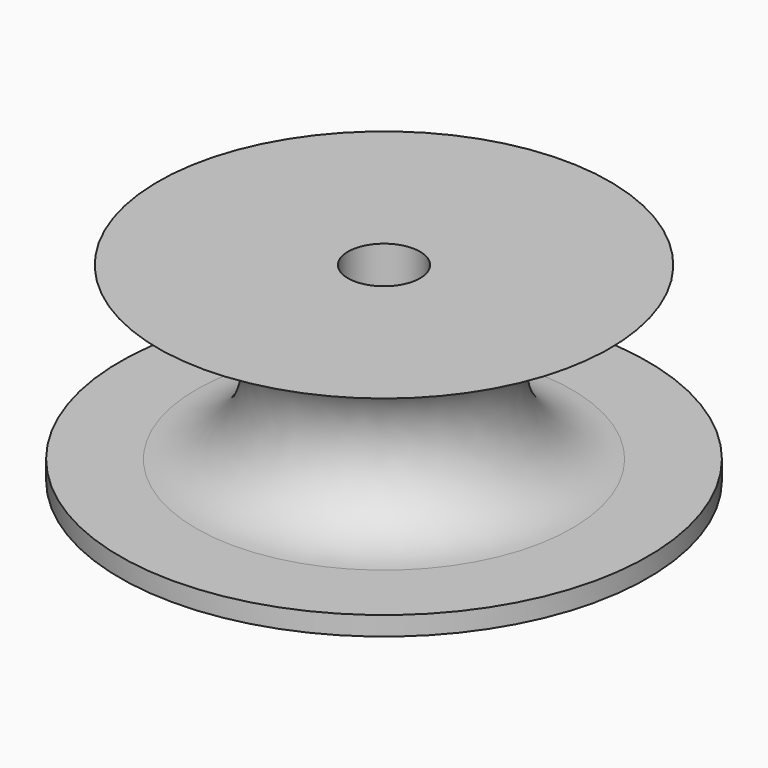
from build123d import *


with BuildPart() as f1:
    # F0 (on Right) → F1 (revolve)
    with BuildSketch(Plane.YZ):
        with BuildLine():
            Line((-1.9, -5), (-1.9, 5))
            Line((-1.9, 5), (-9.9, 5))
            Line((-9.9, 5), (-11.9, 5))
            Line((-11.9, 5), (-9.9, 4))
            ThreePointArc((-9.9, 4), (-5.9, 0), (-9.9, -4))
            Line((-9.9, -4), (-13.9, -4))
            Line((-13.9, -4), (-13.9, -5))
            Line((-13.9, -5), (-9.9, -5))
            Line((-9.9, -5), (-1.9, -5))
        make_face()
    revolve(axis=Axis((0, 0, 2.5), (0, 0, 1)))


solid = f1.part
